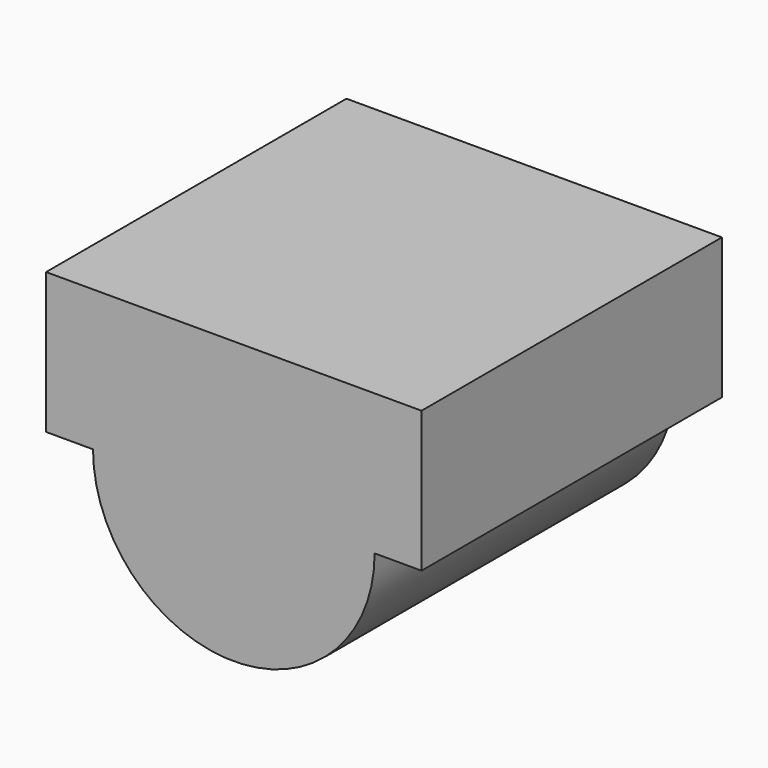
from build123d import *

# Parameters (mm, degrees)
F0_R     = 1.5
F1_DEPTH = 4
F3_DEPTH = 1.5


with BuildPart() as f1:
    # F0 (on Front) → F1 (new body)
    with BuildSketch(Plane.XZ):
        Circle(F0_R)
    extrude(amount=F1_DEPTH)

    # F2 (on Top) → F3 (join)
    with BuildSketch(Plane.XY):
        Polygon((2, 0), (0, 0), (0, -3), (0, -4), (2, -4), align=None)
        Polygon((0, -3), (0, 0), (-2, 0), (-2, -4), (0, -4), align=None)
    extrude(amount=F3_DEPTH)


solid = f1.part
